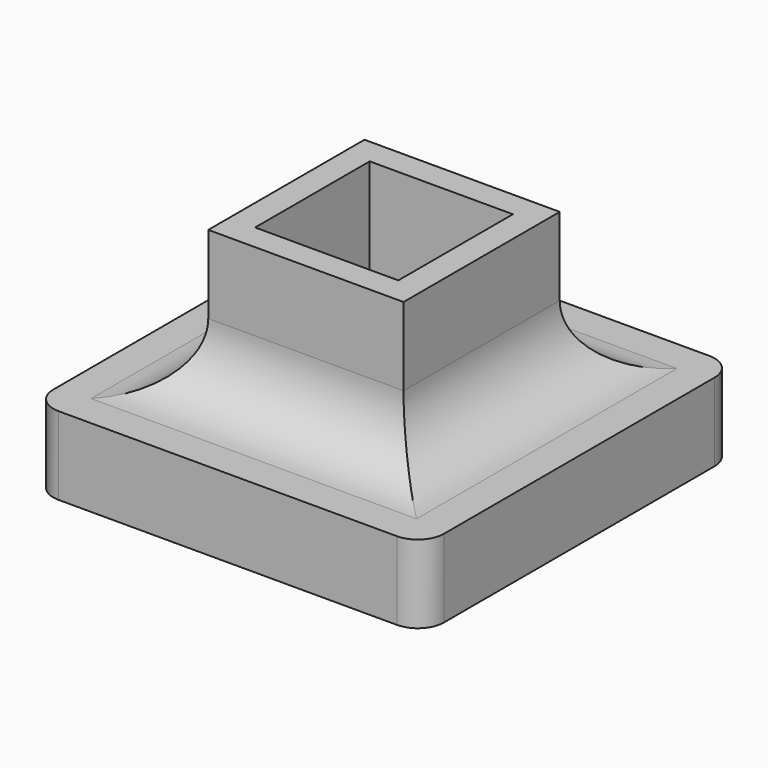
from build123d import *

# Parameters (mm, degrees)
BOX003_W     = 15
BOX003_H     = 15
BOX003_DEPTH = 3
BOX001_W     = 5.5
BOX001_H     = 5.5
BOX001_DEPTH = 6
BOX002_W     = 7.5
BOX002_H     = 7.5
BOX002_DEPTH = 6
FILLET_R     = 2.5
FILLET001_R  = 1


with BuildPart() as cube002:
    # Box003 → Box003 (new body)
    with BuildSketch(Plane.XY.offset(-2.5)):
        with Locations((7.5, 7.5)):
            Rectangle(BOX003_W, BOX003_H)
    extrude(amount=BOX003_DEPTH)


with BuildPart() as inf:
    # Box001 → Box001 (new body)
    with BuildSketch(Plane(origin=(1, 1, 1), x_dir=(1, 0, 0), z_dir=(0, 0, 1))):
        with Locations((2.75, 2.75)):
            Rectangle(BOX001_W, BOX001_H)
    extrude(amount=BOX001_DEPTH)


with BuildPart() as fillet001:
    # Box002 → Box002 (new body)
    with BuildSketch(Plane.XY):
        with Locations((3.75, 3.75)):
            Rectangle(BOX002_W, BOX002_H)
    extrude(amount=BOX002_DEPTH)

    # Cut001: cut inf
    add(inf.part, mode=Mode.SUBTRACT)


with BuildPart() as fillet001_1:
    # Cut001 placement: moved
    add(fillet001.part.moved(Location((3.75, 3.75, 0))))

    # Fusion: union Cube002
    add(cube002.part)

    # Fillet
    fillet_edges = [fillet001_1.edges().sort_by_distance(p)[0] for p in [
        (3.75, 7.5, 0.5),
        (7.5, 3.75, 0.5),
        (11.25, 7.5, 0.5),
        (7.5, 11.25, 0.5),
    ]]
    fillet(fillet_edges, radius=FILLET_R)

    # Fillet001
    fillet001_edges = [fillet001_1.edges().sort_by_distance(p)[0] for p in [
        (0, 0, -1),
        (0, 15, -1),
        (15, 15, -1),
        (15, 0, -1),
    ]]
    fillet(fillet001_edges, radius=FILLET001_R)


solid = fillet001_1.part
